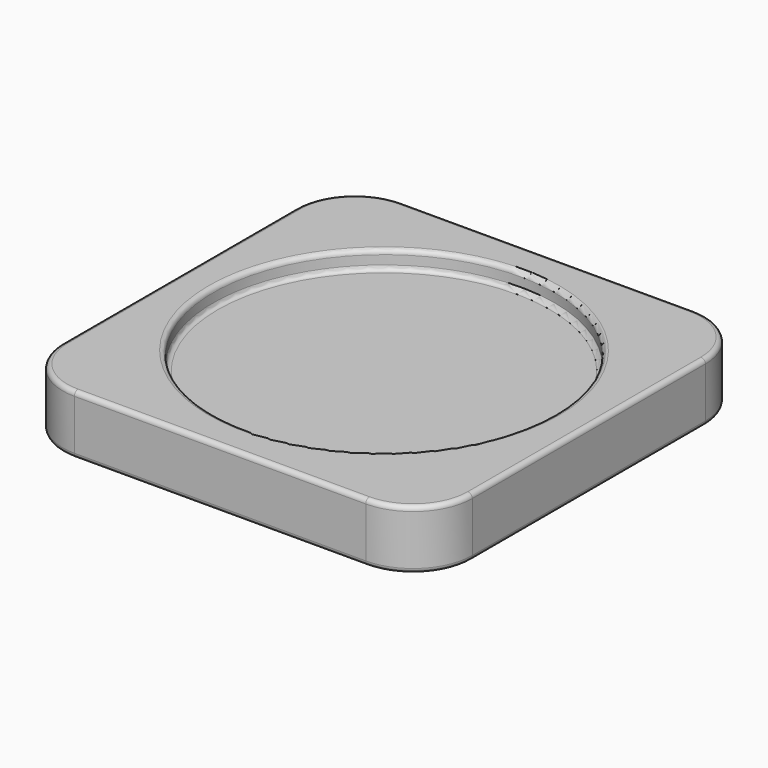
from build123d import *

# Parameters (mm, degrees)
F0_W     = 90
F0_H     = 90
F1_DEPTH = 13
F2_R     = 37.5
F3_DEPTH = 4
F4_R     = 13
F5_R     = 1


with BuildPart() as f1:
    # F0 (on Top) → F1 (new body)
    with BuildSketch(Plane.XY):
        Rectangle(F0_W, F0_H)
    extrude(amount=F1_DEPTH)

    # F2 (on face) → F3 (cut)
    with BuildSketch(Plane.XY.offset(13)):
        Circle(F2_R)
    extrude(amount=-F3_DEPTH, mode=Mode.SUBTRACT)

    # F4
    f4_edges = [f1.edges().sort_by_distance(p)[0] for p in [
        (45, 45, 6.5),
        (-45, 45, 6.5),
        (-45, -45, 6.5),
        (45, -45, 6.5),
    ]]
    fillet(f4_edges, radius=F4_R)

    # F5
    f5_edges = [f1.edges().sort_by_distance(p)[0] for p in [
        (45, 0, 13),
        (0, 45, 0),
        (37.5, 0, 11),
        (-37.5, 0, 13),
        (-37.5, 0, 9),
    ]]
    fillet(f5_edges, radius=F5_R)


solid = f1.part
